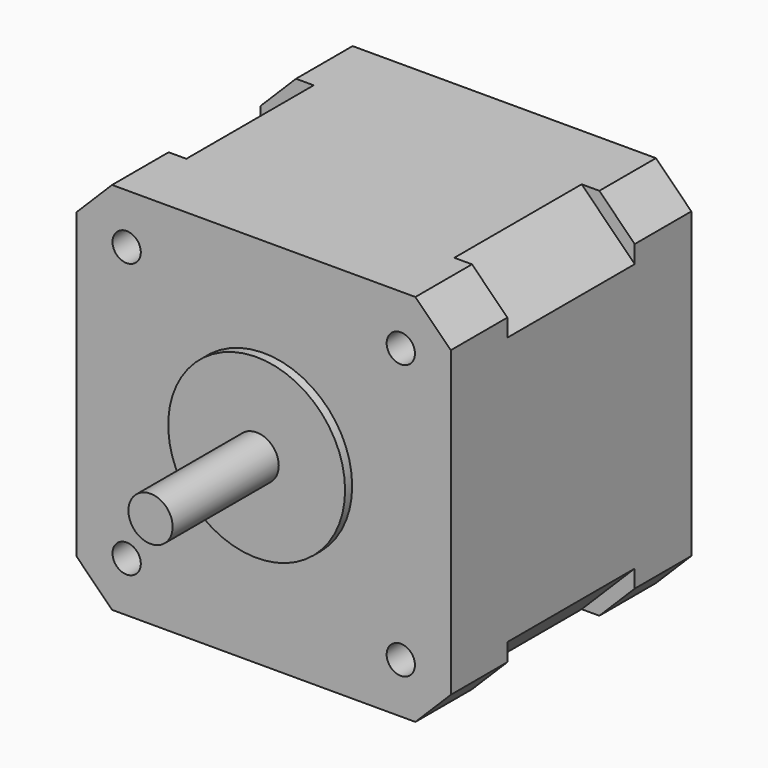
from build123d import *

# Parameters (mm, degrees)
F1_DEPTH  = 8
F3_DEPTH  = 18
F5_DEPTH  = 8
F6_R      = 10
F7_DEPTH  = 1
F9_D      = 3.2
F9_DEPTH  = 8
F9_TIP    = 0.9613769904
F10_R     = 2.5
F11_DEPTH = 15


with BuildPart() as f1:
    # F0 (on Front) → F1 (new body)
    with BuildSketch(Plane.XZ):
        Polygon((-21.15, -17.15), (-17.15, -21.15), (17.15, -21.15), (21.15, -17.15), (21.15, 17.15), (17.15, 21.15), (-17.15, 21.15), (-21.15, 17.15), align=None)
    extrude(amount=F1_DEPTH)

    # F2 (on face) → F3 (join)
    with BuildSketch(Plane.XZ.offset(8)):
        Polygon((-21.15, 15.15), (-21.15, -15.15), (-15.15, -21.15), (15.15, -21.15), (21.15, -15.15), (21.15, 15.15), (15.15, 21.15), (-15.15, 21.15), align=None)
    extrude(amount=F3_DEPTH)

    # F4 (on face) → F5 (join)
    with BuildSketch(Plane.XZ.offset(26)):
        Polygon((-21.15, 17.15), (-21.15, -17.15), (-17.15, -21.15), (17.15, -21.15), (21.15, -17.15), (21.15, 17.15), (17.15, 21.15), (-17.15, 21.15), align=None)
    extrude(amount=F5_DEPTH)

    # F6 (on face) → F7 (join)
    with BuildSketch(Plane.XZ.offset(34)):
        Circle(F6_R)
    extrude(amount=F7_DEPTH)

    # F9
    with Locations(Plane.XZ.offset(34)):
        with Locations((-15.5, 15.5), (15.5, 15.5), (15.5, -15.5), (-15.5, -15.5)):
            Hole(F9_D / 2, depth=F9_DEPTH)
            with Locations((0, 0, -(F9_DEPTH + F9_TIP / 2))):  # 118° drill point
                Cone(0, F9_D / 2, F9_TIP, mode=Mode.SUBTRACT)

    # F10 (on face) → F11 (join)
    with BuildSketch(Plane.XZ.offset(35)):
        Circle(F10_R)
    extrude(amount=F11_DEPTH)


solid = f1.part
